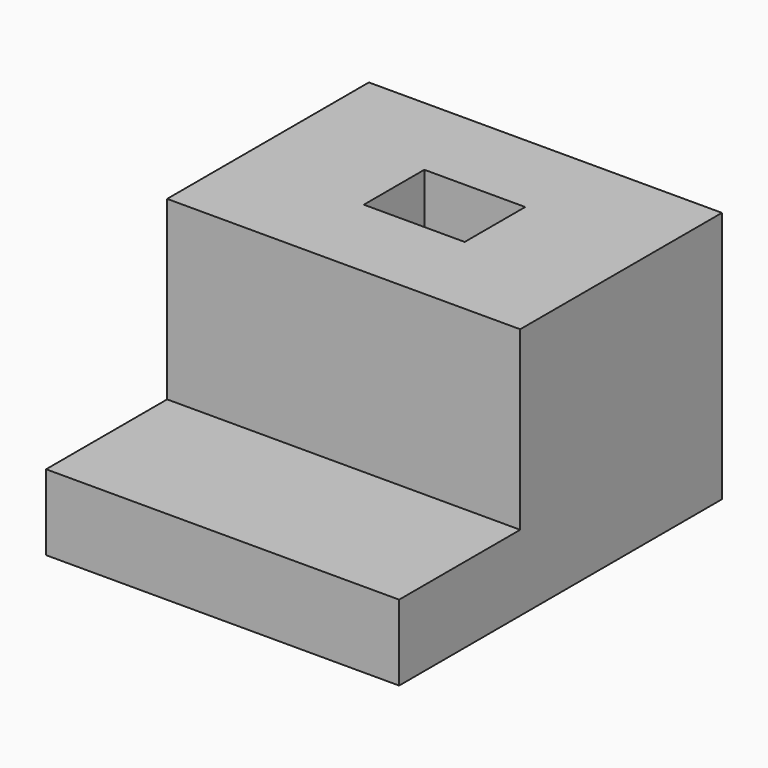
from build123d import *

# Parameters (mm, degrees)
F0_W     = 14
F0_H     = 16
F1_DEPTH = 10
F2_W     = 14
F2_H     = 6
F3_DEPTH = 7
F4_W     = 4
F4_H     = 3
F5_DEPTH = 10.001


with BuildPart() as f1:
    # F0 (on Top) → F1 (new body)
    with BuildSketch(Plane.XY):
        with Locations((7, -8)):
            Rectangle(F0_W, F0_H)
    extrude(amount=F1_DEPTH)

    # F2 (on face) → F3 (cut)
    with BuildSketch(Plane.XY.offset(10)):
        with Locations((7, -13)):
            Rectangle(F2_W, F2_H)
    extrude(amount=-F3_DEPTH, mode=Mode.SUBTRACT)

    # F4 (on face) → F5 (cut, through all)
    with BuildSketch(Plane.XY.offset(10)):
        with Locations((7, -5)):
            Rectangle(F4_W, F4_H)
    extrude(amount=-F5_DEPTH, mode=Mode.SUBTRACT)


solid = f1.part
